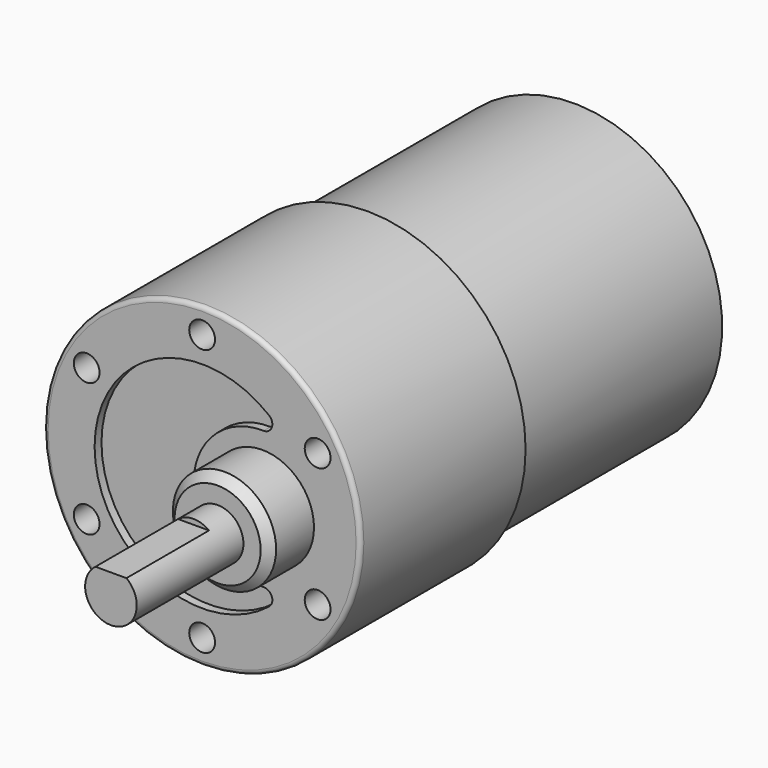
from build123d import *

# Parameters (mm, degrees)
F0_R      = 18.4
F1_DEPTH  = 24
F2_R      = 17.25
F3_DEPTH  = 30
F4_R      = 6
F5_DEPTH  = 6.5
F6_R      = 3
F7_DEPTH  = 15.5
F8_SIZE   = 1
F10_DEPTH = 12
F12_D     = 3
F12_DEPTH = 24
F12_TIP   = 0.9012909285
F14_DEPTH = 1
F15_R     = 6.5
F16_DEPTH = 1.5
F17_SIZE  = 1
F18_W     = 3.175
F18_H     = 0.79375
F19_DEPTH = 5.6
F20_SIZE  = 1
F22_DEPTH = 25.4
F23_R     = 0.5


with BuildPart() as f1:
    # F0 (on Front) → F1 (new body)
    with BuildSketch(Plane.XZ):
        Circle(F0_R)
    extrude(amount=F1_DEPTH)

    # F2 (on face) → F3 (join)
    with BuildSketch(Plane(origin=(0, 0, 0), x_dir=(-1, 0, 0), z_dir=(0, 1, 0))):
        Circle(F2_R)
    extrude(amount=F3_DEPTH)

    # F4 (on face) → F5 (join)
    with BuildSketch(Plane.XZ.offset(24)):
        with Locations((7, 0)):
            Circle(F4_R)
    extrude(amount=F5_DEPTH)

    # F6 (on face) → F7 (join)
    with BuildSketch(Plane.XZ.offset(30.5)):
        with Locations((7, 0)):
            Circle(F6_R)
    extrude(amount=F7_DEPTH)

    # F8
    f8_edges = [f1.edges().sort_by_distance(p)[0] for p in [
        (1, -30.5, 0),
    ]]
    chamfer(f8_edges, length=F8_SIZE)

    # F9 (on face) → F10 (cut)
    with BuildSketch(Plane.XZ.offset(46)):
        with BuildLine():
            ThreePointArc((8.8, 2.4), (7, 3), (5.2, 2.4))
            Line((5.2, 2.4), (8.8, 2.4))
        make_face()
    extrude(amount=-F10_DEPTH, mode=Mode.SUBTRACT)

    # F12
    with Locations(Plane.XZ.offset(24)):
        with Locations((0, 15.5), (-13.4233937587, 7.75), (-13.4233937587, -7.75), (0, -15.5), (13.4233937587, -7.75), (13.4233937587, 7.75)):
            Hole(F12_D / 2, depth=F12_DEPTH)
            with Locations((0, 0, -(F12_DEPTH + F12_TIP / 2))):  # 118° drill point
                Cone(0, F12_D / 2, F12_TIP, mode=Mode.SUBTRACT)

    # F13 (on face) → F14 (cut)
    with BuildSketch(Plane.XZ.offset(24)):
        with BuildLine():
            ThreePointArc((7.1428571429, 7.9987243881), (8.1017881451, 8.6603638261), (7.7833850932, 9.7810488441))
            ThreePointArc((7.7833850932, 9.7810488441), (-12.5, 0), (7.7833850932, -9.7810488441))
            ThreePointArc((7.7833850932, -9.7810488441), (8.1017881451, -8.6603638261), (7.1428571429, -7.9987243881))
            ThreePointArc((7.1428571429, -7.9987243881), (-1, 0), (7.1428571429, 7.9987243881))
        make_face()
    extrude(amount=-F14_DEPTH, mode=Mode.SUBTRACT)

    # F15 (on face) → F16 (join)
    with BuildSketch(Plane(origin=(0, 30, 0), x_dir=(-1, 0, 0), z_dir=(0, 1, 0))):
        Circle(F15_R)
    extrude(amount=F16_DEPTH)

    # F17
    f17_edges = [f1.edges().sort_by_distance(p)[0] for p in [
        (6.5, 31.5, 0),
    ]]
    chamfer(f17_edges, length=F17_SIZE)

    # F18 (on face) → F19 (join)
    with BuildSketch(Plane(origin=(0, 30, 0), x_dir=(-1, 0, 0), z_dir=(0, 1, 0))):
        with Locations((0, 11.653125)):
            Rectangle(F18_W, F18_H)
        with Locations((0, -11.653125)):
            Rectangle(F18_W, F18_H)
    extrude(amount=F19_DEPTH)

    # F20
    f20_edges = [f1.edges().sort_by_distance(p)[0] for p in [
        (-1.5875, 35.6, 11.653125),
        (1.5875, 35.6, 11.653125),
        (1.5875, 35.6, -11.653125),
        (-1.5875, 35.6, -11.653125),
    ]]
    chamfer(f20_edges, length=F20_SIZE)

    # F21 (on face) → F22 (cut)
    with BuildSketch(Plane.XY.offset(12.05)):
        with BuildLine():
            Line((0.5, 33.04), (0.5, 34.31))
            ThreePointArc((0.5, 34.31), (0, 34.81), (-0.5, 34.31))
            Line((-0.5, 34.31), (-0.5, 33.04))
            ThreePointArc((-0.5, 33.04), (0, 32.54), (0.5, 33.04))
        make_face()
    extrude(amount=-F22_DEPTH, mode=Mode.SUBTRACT)

    # F23
    f23_edges = [f1.edges().sort_by_distance(p)[0] for p in [
        (-18.4, -24, 0),
    ]]
    fillet(f23_edges, radius=F23_R)


solid = f1.part
